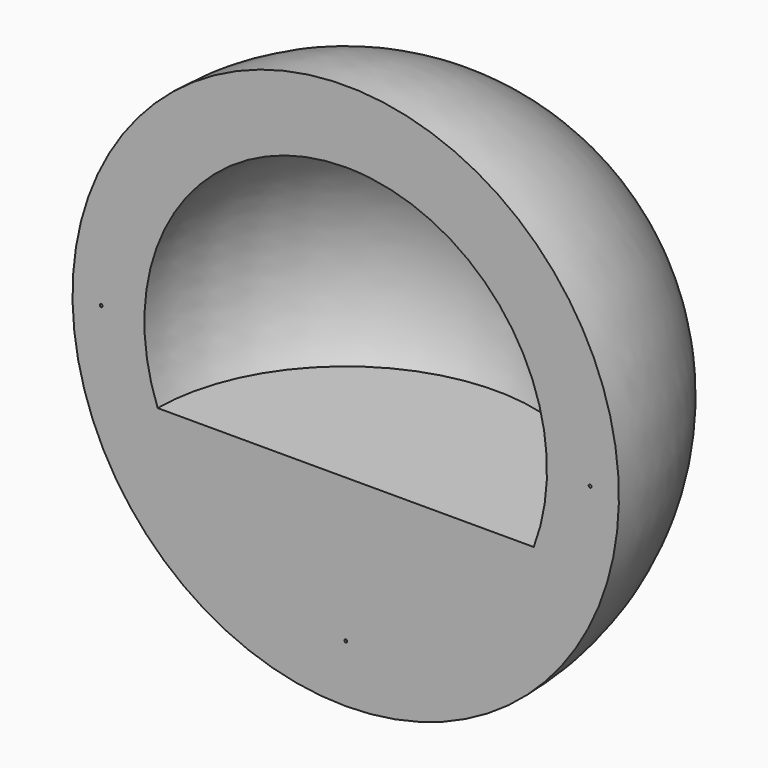
from build123d import *

# Parameters (mm, degrees)
F4_R     = 0.2
F5_DEPTH = 4


with BuildPart() as f1:
    # F0 (on Right) → F1 (revolve)
    with BuildSketch(Plane.YZ):
        with BuildLine():
            Line((0, 0), (0, -38))
            ThreePointArc((0, -38), (26.870058, -26.870058), (38, 0))
            Line((38, 0), (0, 0))
        make_face()
    revolve(axis=Axis((0, 19, 0), (0, -1, 0)))

    # F2 (on face) → F3 (revolve, cut)
    with BuildSketch(Plane.XZ):
        with BuildLine():
            Line((0, -10), (0, 28))
            ThreePointArc((0, 28), (-23.065125, 15.874508), (-26.153394, -10))
            Line((-26.153394, -10), (0, -10))
        make_face()
    revolve(axis=Axis((0, 0, 9), (0, 0, -1)), mode=Mode.SUBTRACT)

    # F4 (on face) → F5 (cut)
    with BuildSketch(Plane.XZ):
        with Locations((0, -30)):
            Circle(F4_R)
        with Locations((34, 0)):
            Circle(F4_R)
        with Locations((-34, 0)):
            Circle(F4_R)
    extrude(amount=-F5_DEPTH, mode=Mode.SUBTRACT)


solid = f1.part
